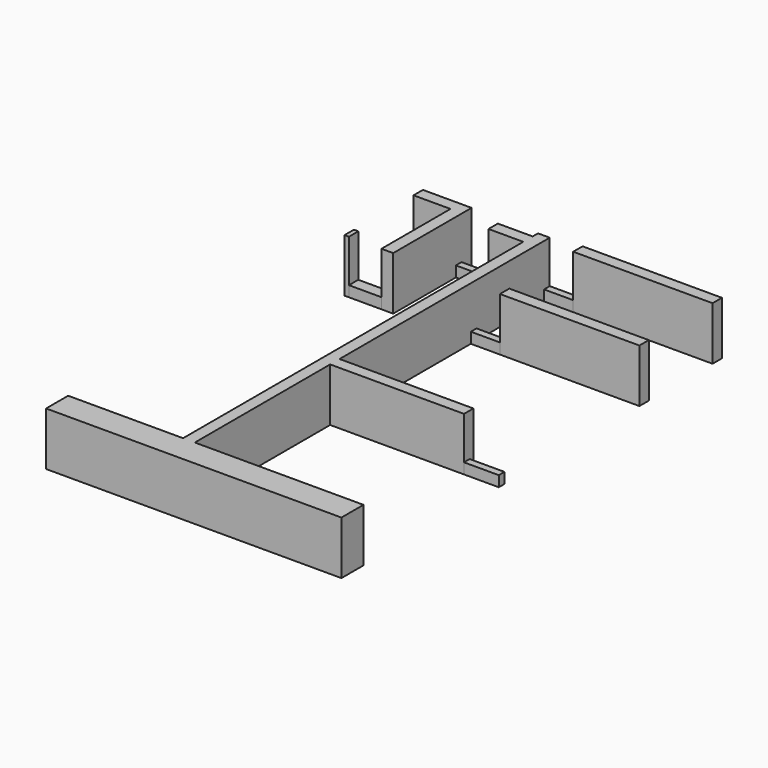
from build123d import *

# Parameters (mm, degrees)
F0_W     = 9.5635297272
F0_H     = 0.8382
F0_W_2   = 0.013438423
F0_W_3   = 0.8382
F0_H_2   = 1.9130930305
F0_W_4   = 2.4869742338
F1_DEPTH = 3.81
F0_W_5   = 9.9639619002
F0_W_6   = 0.3146585077
F0_H_3   = 6.1624832451
F2_W     = 2.3257764
F2_H     = 0.8382
F3_DEPTH = 0.762
F2_W_2   = 2.3305516
F2_H_2   = 0.508
F2_W_3   = 2.0828
F2_W_4   = 2.4851868


with BuildPart() as f1:
    # F0 (on Top) → F1 (new body)
    with BuildSketch(Plane.XY):
        with Locations((1.315930461, -61.7276642486)):
            Rectangle(F0_W, F0_H)
        with Locations((-3.4725536141, -61.7276642486)):
            Rectangle(F0_W_2, F0_H)
        Polygon((-3.4792728256, -61.3085642486), (-3.4658344026, -61.3085642486), (-3.4658344026, -42.5347350538), (-4.3040344026, -42.5347350538), (-4.3040344026, -43.0116258591), (-4.3040344026, -43.8498258591), (-4.3040344026, -74.232660234), (-3.4658344026, -74.232660234), (-3.4658344026, -62.1467642486), (-3.4792728256, -62.1467642486), align=None)
        Polygon((8.5839493171, -74.232660234), (-3.4658344026, -74.232660234), (-3.4658344026, -76.1457532644), (-4.3040344026, -76.1457532644), (-4.3040344026, -74.232660234), (-12.5174090295, -74.232660234), (-12.5174090295, -76.2031450868), (8.5839493171, -76.2031450868), align=None)
        with Locations((-3.8849344026, -75.1892067492)):
            Rectangle(F0_W_3, F0_H_2)
        with Locations((-5.5475215195, -43.4307258591)):
            Rectangle(F0_W_4, F0_H)
    extrude(amount=F1_DEPTH)


with BuildPart() as f1b:
    # F0 (on Top) → F1, piece 2 (new body)
    with BuildSketch(Plane.XY):
        with Locations((3.5989465475, -49.1661120221)):
            Rectangle(F0_W_5, F0_H)
    extrude(amount=F1_DEPTH)


with BuildPart() as f1c:
    # F0 (on Top) → F1, piece 3 (new body)
    with BuildSketch(Plane.XY):
        Polygon((8.5711954095, -42.2047168046), (-1.3830344026, -42.2047168046), (-1.3830344026, -43.0429168046), (8.5723763266, -43.0429168046), (8.5723763266, -42.2047168046), align=None)
    extrude(amount=F1_DEPTH)


with BuildPart() as f1d:
    # F0 (on Top) → F1, piece 4 (new body)
    with BuildSketch(Plane.XY):
        with Locations((-12.4428793788, -49.0263912841)):
            Rectangle(F0_W_6, F0_H)
    extrude(amount=F1_DEPTH)


with BuildPart() as f1e:
    # F0 (on Top) → F1, piece 5 (new body)
    with BuildSketch(Plane.XY):
        with Locations((-9.5406619846, -46.3651325554)):
            Rectangle(F0_W_3, F0_H_3)
        Polygon((-9.9597619846, -43.2838909328), (-9.1215619846, -43.2838909328), (-9.1215619846, -42.4456909328), (-12.5985499471, -42.4456909328), (-12.5985499471, -43.2838909328), align=None)
    extrude(amount=F1_DEPTH)


with BuildPart() as f3:
    # F2 (on Top) → F3 (new body)
    with BuildSketch(Plane.XY):
        with Locations((-11.1226551235, -49.0264538689)):
            Rectangle(F2_W, F2_H)
    extrude(amount=F3_DEPTH)


with BuildPart() as f3b:
    # F2 (on Top) → F3, piece 2 (new body)
    with BuildSketch(Plane.XY):
        with Locations((-7.9562930735, -43.5959078155)):
            Rectangle(F2_W_2, F2_H_2)
    extrude(amount=F3_DEPTH)


with BuildPart() as f3c:
    # F2 (on Top) → F3, piece 3 (new body)
    with BuildSketch(Plane.XY):
        with Locations((-2.4244838995, -42.7889168046)):
            Rectangle(F2_W_3, F2_H_2)
    extrude(amount=F3_DEPTH)


with BuildPart() as f3d:
    # F2 (on Top) → F3, piece 4 (new body)
    with BuildSketch(Plane.XY):
        with Locations((-2.424481804, -49.3311002634)):
            Rectangle(F2_W_3, F2_H_2)
    extrude(amount=F3_DEPTH)


with BuildPart() as f3e:
    # F2 (on Top) → F3, piece 5 (new body)
    with BuildSketch(Plane.XY):
        with Locations((7.3394230602, -61.893051096)):
            Rectangle(F2_W_4, F2_H_2)
    extrude(amount=F3_DEPTH)


solid = Compound([f1.part, f1b.part, f1c.part, f1d.part, f1e.part, f3.part, f3b.part, f3c.part, f3d.part, f3e.part])
